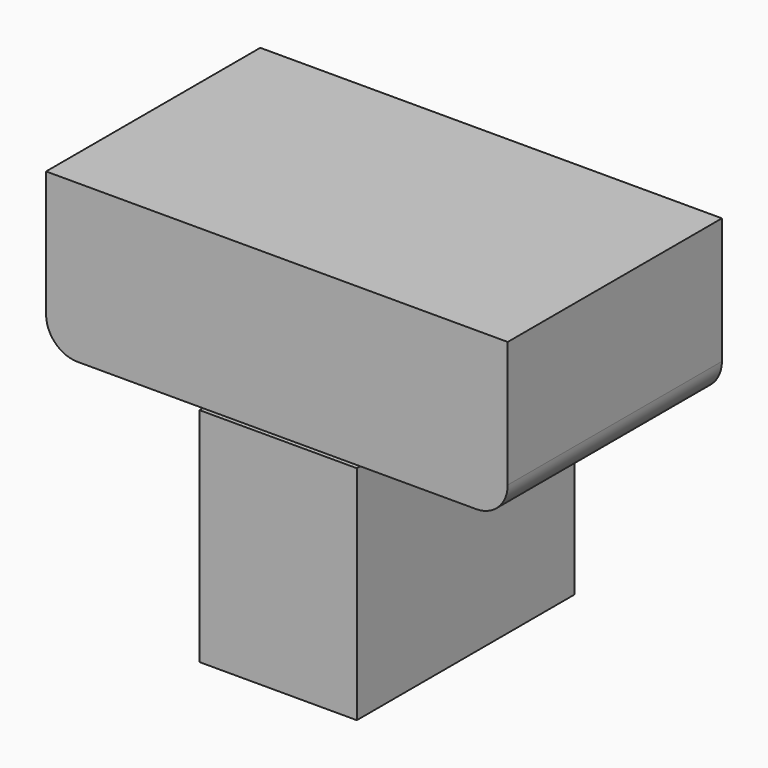
from build123d import *

# Parameters (mm, degrees)
F1_W     = 43.941932
F1_H     = 35.796363
F2_DEPTH = 25.4
F0_W     = 74.497212
F0_H     = 43.208381
F3_DEPTH = 25.4
F4_R     = 5.08
F5_R     = 5.08


with BuildPart() as f2:
    # F1 (on Right) → F2 (new body)
    with BuildSketch(Plane.YZ):
        with Locations((5.488838, -17.898181)):
            Rectangle(F1_W, F1_H)
    extrude(amount=F2_DEPTH)

    # F0 (on Top) → F3 (join)
    with BuildSketch(Plane.XY):
        with Locations((11.949877, 5.810783)):
            Rectangle(F0_W, F0_H)
    extrude(amount=F3_DEPTH)

    # F4
    f4_edges = [f2.edges().sort_by_distance(p)[0] for p in [
        (49.198483, 5.810783, 0),
    ]]
    fillet(f4_edges, radius=F4_R)

    # F5
    f5_edges = [f2.edges().sort_by_distance(p)[0] for p in [
        (-25.298729, 5.810783, 0),
    ]]
    fillet(f5_edges, radius=F5_R)


solid = f2.part
